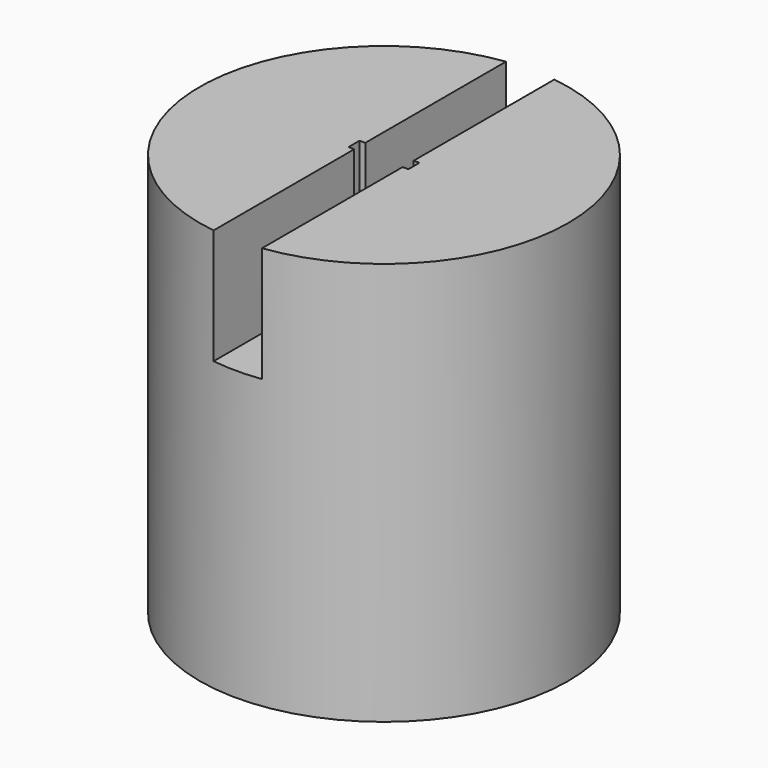
from build123d import *

# Parameters (mm, degrees)
SKETCH_R        = 16
PAD_DEPTH       = 35
SKETCH001_R     = 14
POCKET_DEPTH    = 23
SKETCH002_R     = 3.98
PAD001_DEPTH    = 10
SKETCH003_W     = 5.2
SKETCH003_H     = 1.2
POCKET001_DEPTH = 10
SKETCH004_W     = 4.2
SKETCH004_H     = 32.681076
POCKET002_DEPTH = 10


with BuildPart() as part:
    # Sketch → Pad (new body)
    with BuildSketch(Plane.XY):
        Circle(SKETCH_R)
    extrude(amount=PAD_DEPTH)

    # Sketch001 (on Face2 of Pad) → Pocket (cut)
    with BuildSketch(Plane(origin=(0, 0, 0), x_dir=(1, 0, 0), z_dir=(0, 0, -1))):
        Circle(SKETCH001_R)
    extrude(amount=-POCKET_DEPTH, mode=Mode.SUBTRACT)

    # Sketch002 (on Face5 of Pocket) → Pad001 (join)
    with BuildSketch(Plane(origin=(0, 0, 23), x_dir=(1, 0, 0), z_dir=(0, 0, -1))):
        Circle(SKETCH002_R)
    extrude(amount=PAD001_DEPTH)

    # Sketch003 (on Face3 of Pad001) → Pocket001 (cut)
    with BuildSketch(Plane.XY.offset(35)):
        Rectangle(SKETCH003_W, SKETCH003_H)
    extrude(amount=-POCKET001_DEPTH, mode=Mode.SUBTRACT)

    # Sketch004 (on Face3 of Pocket001) → Pocket002 (cut)
    with BuildSketch(Plane.XY.offset(35)):
        with Locations((0, -0.015375)):
            Rectangle(SKETCH004_W, SKETCH004_H)
    extrude(amount=-POCKET002_DEPTH, mode=Mode.SUBTRACT)


solid = part.part
